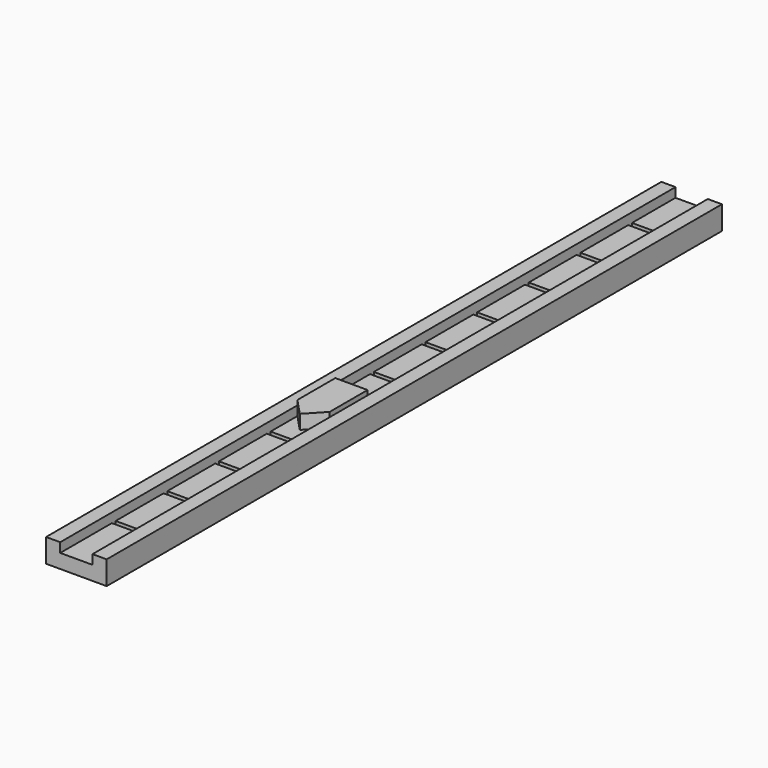
from build123d import *

# Parameters (mm, degrees)
F0_W     = 1.73736
F0_H     = 41.402
F1_DEPTH = 0.762
F3_DEPTH = 0.762
F4_W     = 4.572
F4_H     = 0.254
F4_W_2   = 4.571999
F5_DEPTH = 0.508
F6_W     = 0.762
F6_H     = 41.402
F7_DEPTH = 1.27


with BuildPart() as f1:
    # F0 (on Top) → F1 (new body)
    with BuildSketch(Plane.XY):
        with Locations((0.86868, -20.5415)):
            Rectangle(F0_W, F0_H)
    extrude(amount=F1_DEPTH)

    # F2 (on face) → F3 (join)
    with BuildSketch(Plane.XY.offset(0.762)):
        Polygon((0, -22.733282), (0, -25.283881), (0.86868, -26.208002), (1.73736, -25.283881), (1.73736, -22.733282), align=None)
    extrude(amount=F3_DEPTH)

    # F4 (on face) → F5 (cut)
    with BuildSketch(Plane.XY.offset(0.762)):
        with Locations((2.078398, -37.64078)):
            Rectangle(F4_W, F4_H)
        with Locations((2.066683, -34.166079)):
            Rectangle(F4_W, F4_H)
        with Locations((2.054968, -30.691379)):
            Rectangle(F4_W, F4_H)
        with Locations((2.043252, -27.216679)):
            Rectangle(F4_W_2, F4_H)
        with Locations((2.031537, -23.741979)):
            Rectangle(F4_W, F4_H)
        with Locations((2.019822, -20.267278)):
            Rectangle(F4_W, F4_H)
        with Locations((2.008107, -16.792578)):
            Rectangle(F4_W, F4_H)
        with Locations((1.996391, -13.317878)):
            Rectangle(F4_W_2, F4_H)
        with Locations((1.984676, -9.843178)):
            Rectangle(F4_W_2, F4_H)
        with Locations((1.972961, -6.368477)):
            Rectangle(F4_W, F4_H)
        with Locations((1.961246, -2.893777)):
            Rectangle(F4_W, F4_H)
    extrude(amount=-F5_DEPTH, mode=Mode.SUBTRACT)

    # F6 (on Top) → F7 (join)
    with BuildSketch(Plane.XY):
        with Locations((-0.381, -20.5415)):
            Rectangle(F6_W, F6_H)
        with Locations((2.11836, -20.5415)):
            Rectangle(F6_W, F6_H)
    extrude(amount=F7_DEPTH)


solid = f1.part
